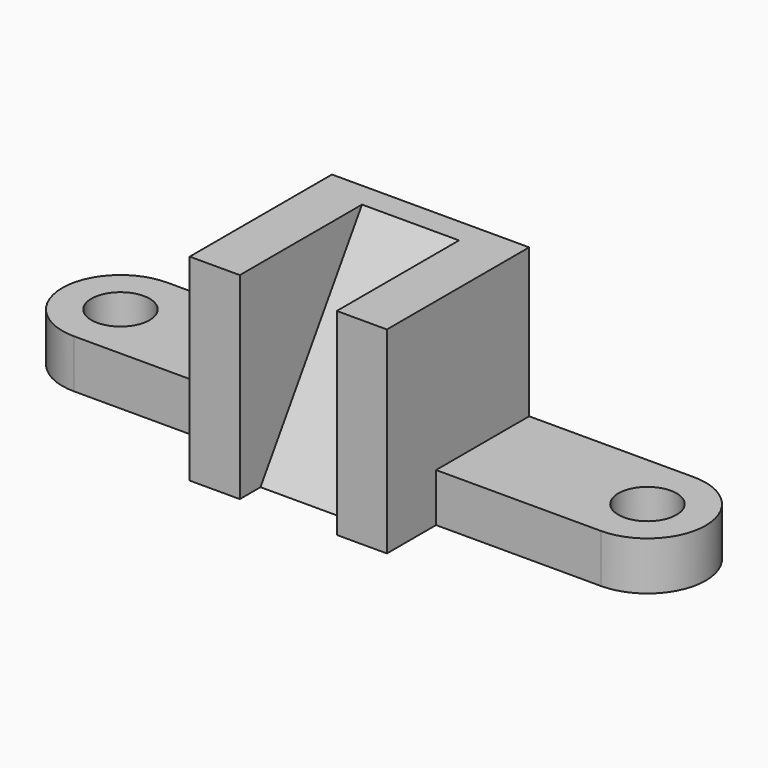
from build123d import *

# Parameters (mm, degrees)
F0_W     = 61
F0_H     = 55
F1_DEPTH = 61
F2_W     = 30
F2_H     = 47.25
F3_DEPTH = 61
F4_R     = 9
F5_DEPTH = 15
F7_DEPTH = 30


with BuildPart() as f1:
    # F0 (on Top) → F1 (new body)
    with BuildSketch(Plane.XY):
        Rectangle(F0_W, F0_H)
    extrude(amount=F1_DEPTH)

    # F2 (on face) → F3 (cut)
    with BuildSketch(Plane.XY.offset(61)):
        with Locations((0, -3.875)):
            Rectangle(F2_W, F2_H)
    extrude(amount=-F3_DEPTH, mode=Mode.SUBTRACT)

    # F4 (on face) → F5 (join)
    with BuildSketch(Plane(origin=(0, 0, 0), x_dir=(1, 0, 0), z_dir=(0, 0, -1))):
        with BuildLine():
            Line((-81.5, -27.5), (-30.5, -27.5))
            Line((-30.5, -27.5), (-30.5, 8.5))
            Line((-30.5, 8.5), (-81.5, 8.5))
            ThreePointArc((-81.5, 8.5), (-99.5, -9.5), (-81.5, -27.5))
        make_face()
        with Locations((-81.5, -9.5)):
            Circle(F4_R, mode=Mode.SUBTRACT)
        with BuildLine():
            Line((30.5, 8.5), (30.5, -27.5))
            Line((30.5, -27.5), (81.5, -27.5))
            ThreePointArc((81.5, -27.5), (99.5, -9.5), (81.5, 8.5))
            Line((81.5, 8.5), (30.5, 8.5))
        make_face()
        with Locations((81.5, -9.5)):
            Circle(F4_R, mode=Mode.SUBTRACT)
    extrude(amount=-F5_DEPTH)

    # F6 (on face) → F7 (join)
    with BuildSketch(Plane.YZ.offset(-15)):
        Polygon((19.75, 0), (19.75, 61), (-19.5, 0), align=None)
    extrude(amount=F7_DEPTH)


solid = f1.part
